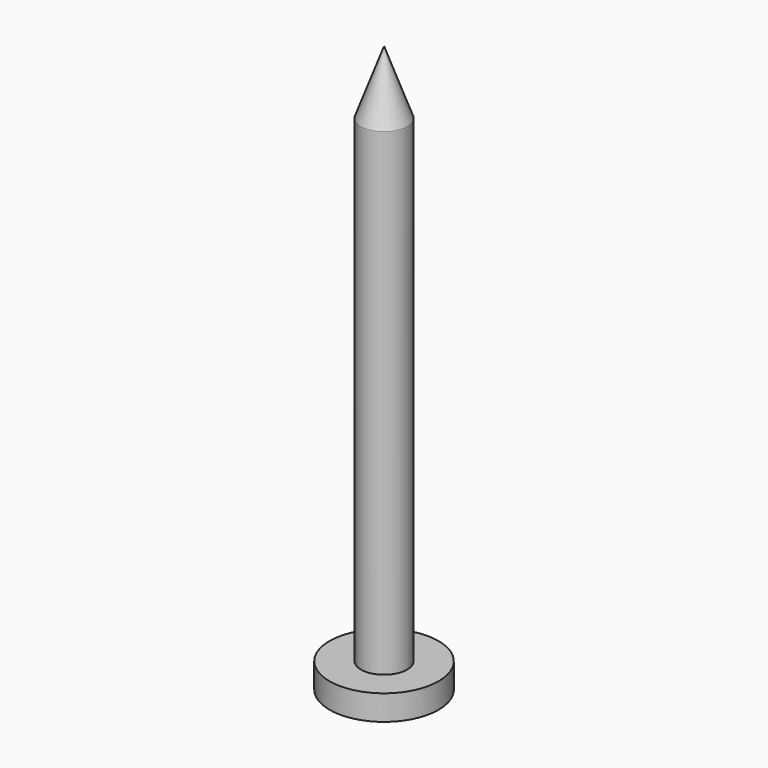
from build123d import *

# Parameters (mm, degrees)
F0_R      = 3.25
F0_R_2    = 1.375
F1_DEPTH  = 1.5
F2_DEPTH  = 30
F2_FACE_R = 1.375
F3_DEPTH  = 5
F3_TAPER  = 20


with BuildPart() as f1:
    # F0 (on Top) → F1 (new body)
    with BuildSketch(Plane.XY):
        Circle(F0_R)
        Circle(F0_R_2, mode=Mode.SUBTRACT)
    extrude(amount=F1_DEPTH)

    # F0 (on Top) → F2 (join)
    with BuildSketch(Plane.XY):
        Circle(F0_R_2)
    extrude(amount=F2_DEPTH)

    # F2_face (on face) → F3 (join)
    with BuildSketch(Plane.XY.offset(30)):
        Circle(F2_FACE_R)
    extrude(amount=F3_DEPTH, taper=F3_TAPER)


solid = f1.part
